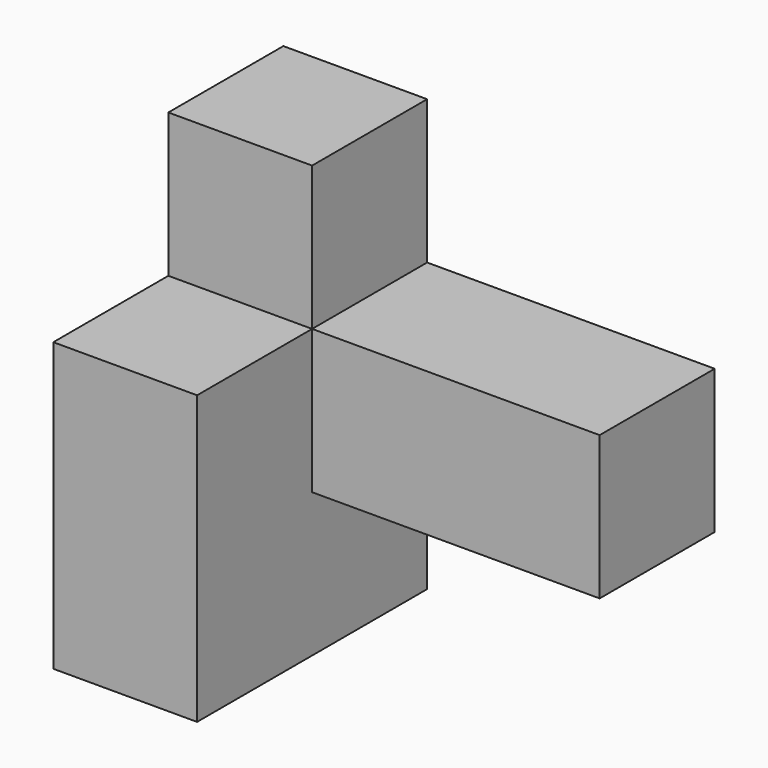
from build123d import *

# Parameters (mm, degrees)
F0_W     = 19.05
F0_H     = 38.1
F1_DEPTH = 57.15
F2_W     = 19.05
F2_H     = 19.05
F3_DEPTH = 19.05
F4_W     = 19.05
F4_H     = 19.05
F5_DEPTH = 38.1


with BuildPart() as f1:
    # F0 (on Top) → F1 (new body)
    with BuildSketch(Plane.XY):
        with Locations((9.525, 19.05)):
            Rectangle(F0_W, F0_H)
    extrude(amount=F1_DEPTH)

    # F2 (on face) → F3 (cut)
    with BuildSketch(Plane.YZ.offset(19.05)):
        with Locations((9.525, 47.625)):
            Rectangle(F2_W, F2_H)
    extrude(amount=-F3_DEPTH, mode=Mode.SUBTRACT)

    # F4 (on face) → F5 (join)
    with BuildSketch(Plane.YZ.offset(19.05)):
        with Locations((28.575, 28.575)):
            Rectangle(F4_W, F4_H)
    extrude(amount=F5_DEPTH)


solid = f1.part
